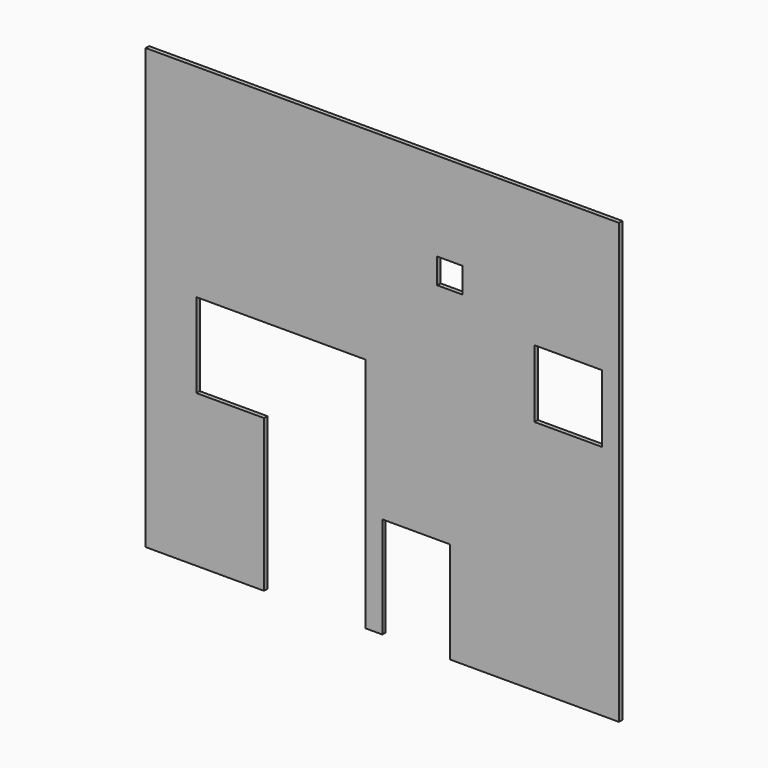
from build123d import *

# Parameters (mm, degrees)
F0_W     = 50.8
F0_H     = 50.8
F0_W_2   = 19.05
F0_H_2   = 19.05
F1_DEPTH = 3.175


with BuildPart() as f1:
    # F0 (on Front) → F1 (new body)
    with BuildSketch(Plane.XZ):
        Polygon((185.420972, 200.016092), (-170.179028, 200.016092), (-170.179028, -130.183908), (-132.079028, -130.183908), (-81.279028, -130.197912), (-81.279028, -15.883908), (-132.079028, -15.883908), (-132.079028, 47.616092), (-5.079028, 47.616092), (-5.079028, -130.183908), (7.620972, -130.183908), (7.620972, -53.983908), (58.420972, -53.983908), (58.420972, -130.183908), (185.420972, -130.183908), (185.420972, 114.291092), align=None)
        with Locations((147.320972, 73.016092)):
            Rectangle(F0_W, F0_H, mode=Mode.SUBTRACT)
        with Locations((58.420972, 123.816092)):
            Rectangle(F0_W_2, F0_H_2, mode=Mode.SUBTRACT)
    extrude(amount=F1_DEPTH)


solid = f1.part
